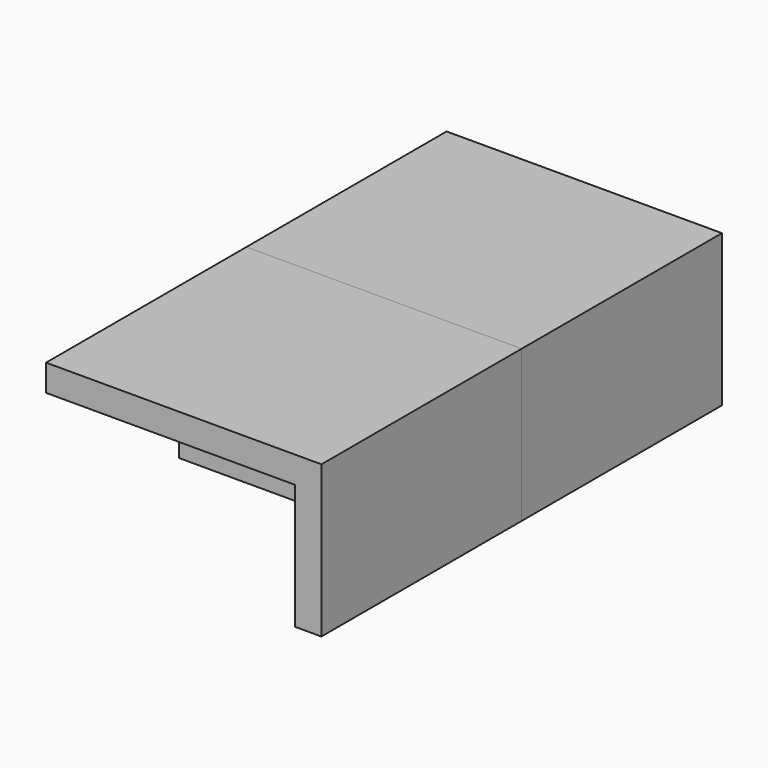
from build123d import *

# Parameters (mm, degrees)
F0_W          = 37.4
F0_H          = 18.8
F0_R          = 4.76
F1_DEPTH      = 12.64
F3_DEPTH      = 25
F3_DEPTH_BACK = 12.64


with BuildPart() as f1:
    # F0 (on Front) → F1 (new body)
    with BuildSketch(Plane.XZ):
        with Locations((-6.2333, 0)):
            Rectangle(F0_W, F0_H)
        with Locations((-12.4663, 0)):
            Circle(F0_R, mode=Mode.SUBTRACT)
        Circle(F0_R, mode=Mode.SUBTRACT)
    extrude(amount=F1_DEPTH)

    # F2 (on face) → F3 (join, two sides)
    with BuildSketch(Plane.XZ.offset(12.64)) as f3_sk:
        Polygon((12.4667, 9.4), (12.4667, -9.4), (16.4667, -9.4), (16.4667, 13.4), (-24.9333, 13.4), (-24.9333, 9.4), align=None)
    extrude(amount=F3_DEPTH)
    extrude(f3_sk.sketch, amount=-F3_DEPTH_BACK)


with BuildPart() as f4_1:
    # F4: instance of F1
    add(f1.part.mirror(Plane.XZ))


solid = Compound([f1.part, f4_1.part])
